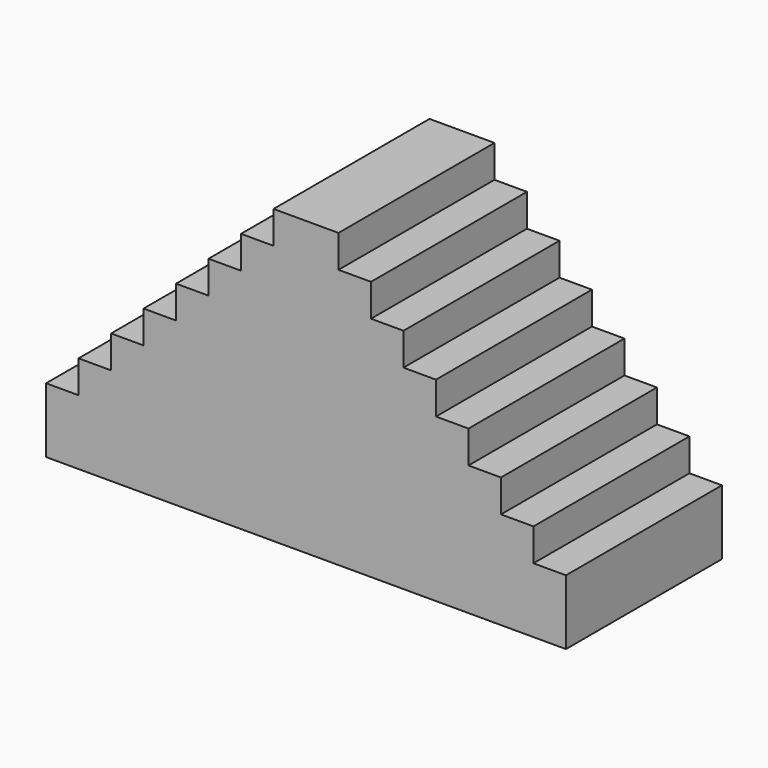
from build123d import *

# Parameters (mm, degrees)
F1_DEPTH = 30


with BuildPart() as f1:
    # F0 (on Front) → F1 (new body)
    with BuildSketch(Plane.XZ):
        Polygon((0, 45), (0, 0), (40, 0), (40, 10), (35, 10), (35, 15), (30, 15), (30, 20), (25, 20), (25, 25), (20, 25), (20, 30), (15, 30), (15, 35), (10, 35), (10, 40), (5, 40), (5, 45), align=None)
    extrude(amount=F1_DEPTH)

    # F2: F1 across plane


with BuildPart() as f1_1:
    add(f1.part)
    add(f1.part.mirror(Plane.YZ))


solid = f1_1.part
